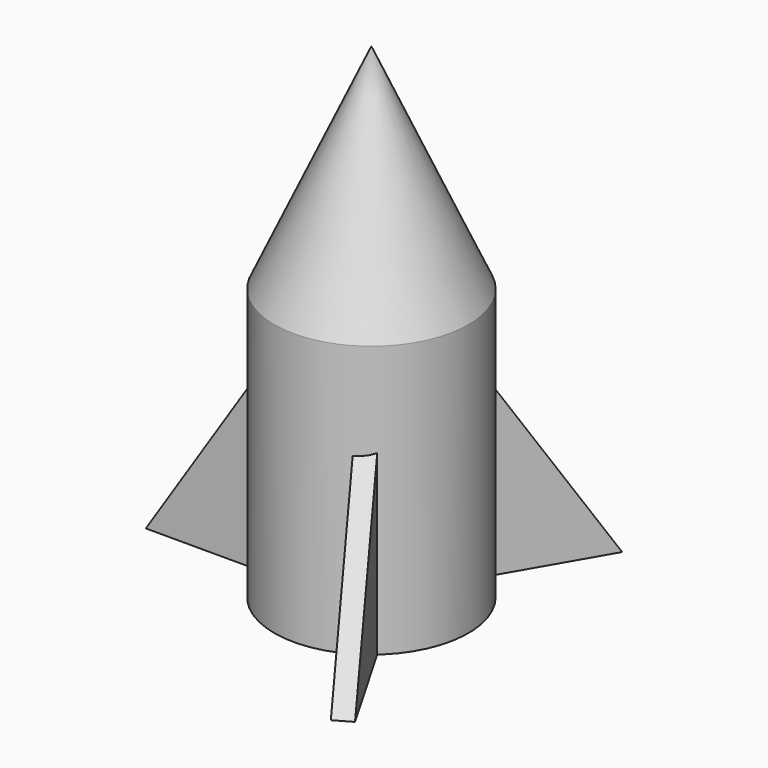
from build123d import *

# Parameters (mm, degrees)
F4_DEPTH = 3
F5_COUNT = 3


with BuildPart() as f1:
    # F0 (on Front) → F1 (revolve)
    with BuildSketch(Plane.XZ):
        Polygon((0, 76.198541), (-15.24, 42.644928), (-15.24, 0), (0, 0), align=None)
    revolve(axis=Axis((0, 0, 38.09927), (0, 0, -1)))


with BuildPart() as f4:
    # F3 (on Front) → F4 (new body)
    with BuildSketch(Plane.XZ):
        Polygon((-7.62, 0), (0, 50.775576), (-33.02, 0), align=None)
    extrude(amount=F4_DEPTH)


with BuildPart() as f5_1:
    # F5: instance of F4
    add(f4.part.rotate(Axis((0, 0, 32.125692), (0, 0, 1)), 1 * 360 / F5_COUNT))


with BuildPart() as f5_2:
    # F5: instance of F4
    add(f4.part.rotate(Axis((0, 0, 32.125692), (0, 0, 1)), 2 * 360 / F5_COUNT))


solid = Compound([f1.part, f4.part, f5_1.part, f5_2.part])
